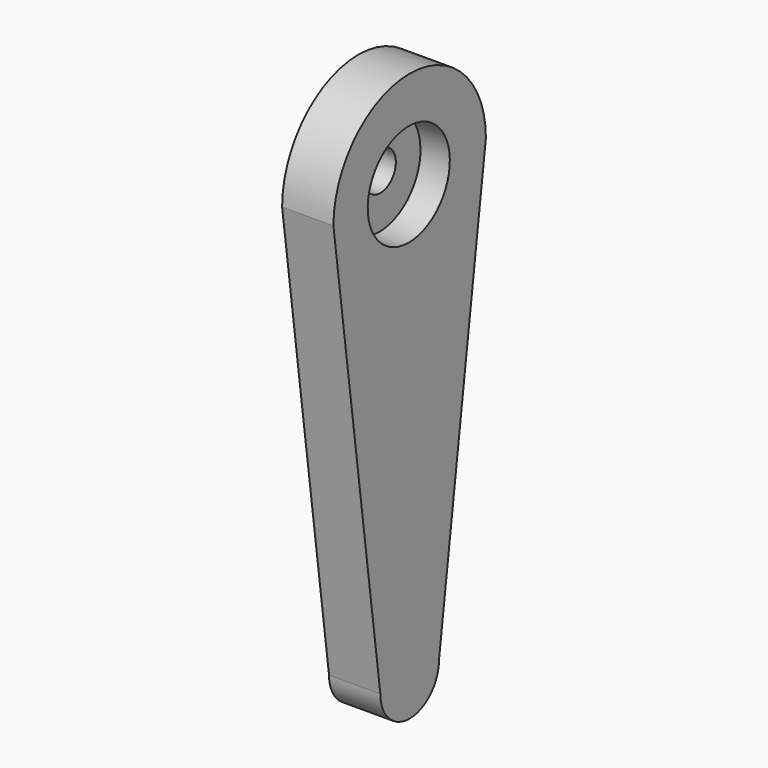
from build123d import *

# Parameters (mm, degrees)
CYLINDER_R     = 7
CYLINDER_DEPTH = 5
SKETCH_R       = 2.644595
PAD_DEPTH      = 7


with BuildPart() as cylinder:
    # Cylinder → Cylinder (new body)
    with BuildSketch(Plane(origin=(13.5, 25, 39), x_dir=(0, 0, -1), z_dir=(1, 0, 0))):
        Circle(CYLINDER_R)
    extrude(amount=CYLINDER_DEPTH)


with BuildPart() as cut:
    # Sketch → Pad (new body)
    with BuildSketch(Plane.YZ):
        with BuildLine():
            Line((12.552548, 39.037066), (20.552548, -20.427209))
            ThreePointArc((20.552548, -20.427209), (25.552548, -25.427189), (30.552548, -20.427209))
            Line((30.552548, -20.427209), (38.552548, 39.037066))
            ThreePointArc((38.552548, 39.037066), (25.552548, 52.03702), (12.552548, 39.037066))
        make_face()
        with Locations((25.552548, 39.03702)):
            Circle(SKETCH_R, mode=Mode.SUBTRACT)
    extrude(amount=PAD_DEPTH)


with BuildPart() as cut_1:
    # Body placement: moved
    add(cut.part.moved(Location((10.5, -0.4, 0.2))))

    # Cut: cut Cylinder
    add(cylinder.part, mode=Mode.SUBTRACT)


solid = cut_1.part
